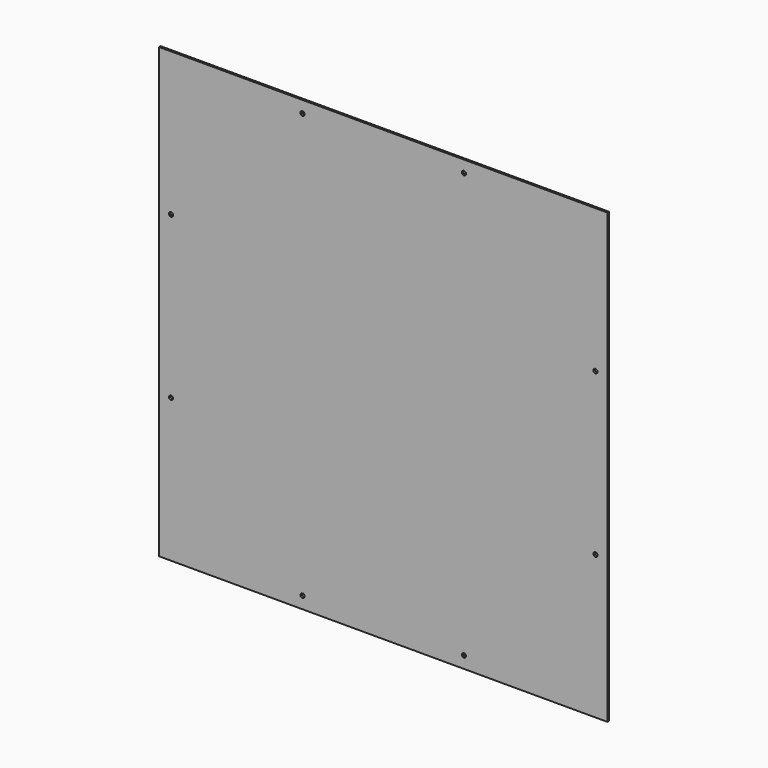
from build123d import *

# Parameters (mm, degrees)
F0_W     = 375
F0_H     = 375
F1_DEPTH = 1.6
F2_R     = 1.75
F3_DEPTH = 2


with BuildPart() as f1:
    # F0 (on Front) → F1 (new body)
    with BuildSketch(Plane.XZ):
        with Locations((-187.5, 187.5)):
            Rectangle(F0_W, F0_H)
    extrude(amount=F1_DEPTH)

    # F2 (on face) → F3 (cut)
    with BuildSketch(Plane.XZ.offset(1.6)):
        with Locations((-255, 365)):
            Circle(F2_R)
        with Locations((-120, 365)):
            Circle(F2_R)
        with Locations((-10, 120)):
            Circle(F2_R)
        with Locations((-365, 120)):
            Circle(F2_R)
        with Locations((-365, 255)):
            Circle(F2_R)
        with Locations((-10, 255)):
            Circle(F2_R)
        with Locations((-120, 10)):
            Circle(F2_R)
        with Locations((-255, 10)):
            Circle(F2_R)
    extrude(amount=-F3_DEPTH, mode=Mode.SUBTRACT)


solid = f1.part
